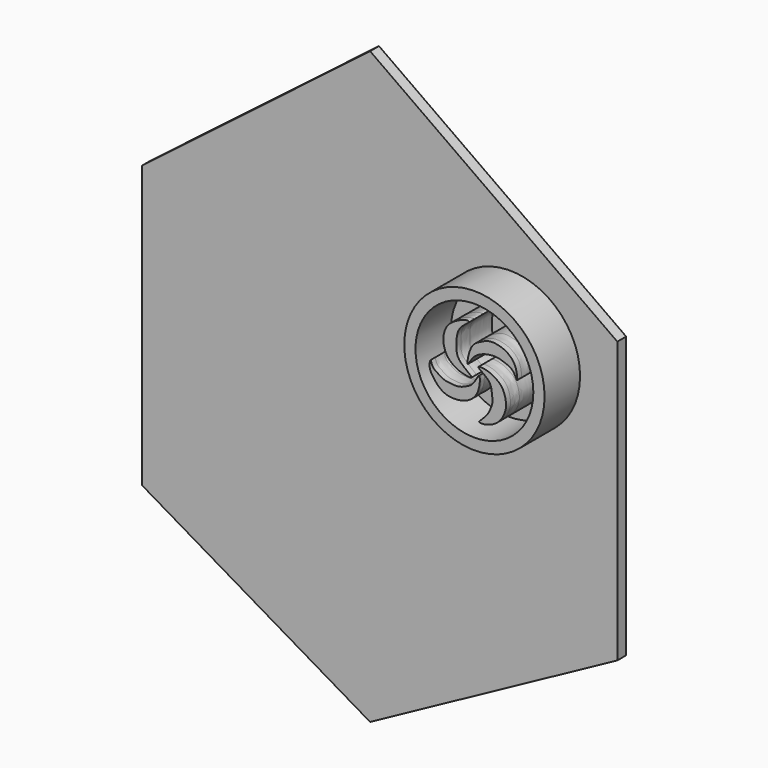
from build123d import *

# Parameters (mm, degrees)
F1_DEPTH  = 12.7
F2_DEPTH  = 2.54
F3_DEPTH  = 7.62
F4_DEPTH  = 2.54
F5_DEPTH  = 2.54
F6_DEPTH  = 2.54
F7_DEPTH  = 2.54
F8_DEPTH  = 2.54
F9_DEPTH  = 2.54
F10_R     = 16.0741043037
F10_R_2   = 13.5007402888
F11_DEPTH = 6.35
F12_DEPTH = 2.54
F13_DEPTH = 12.7
F14_DEPTH = 15.24
F15_DEPTH = 12.7
F16_DEPTH = 7.62
F17_DEPTH = 2.54
F18_DEPTH = 1.27


with BuildPart() as f1:
    # F0 (on Front) → F1 (new body)
    with BuildSketch(Plane.XZ):
        Polygon((59.2296272516, 26.558874175), (0, 68.5641244054), (-54.7846257687, 26.558874175), (-54.7846257687, -40.5606217682), (0, -72.7868750691), (59.2296272516, -40.5606217682), align=None)
    extrude(amount=F1_DEPTH)

    # F2 (cut): a face of the model
    f2_faces = [f1.faces().sort_by_distance(p)[0] for p in [
        (1.9587071028, -12.7, -4.2659517496),
    ]]
    extrude(f2_faces, amount=-F2_DEPTH, mode=Mode.SUBTRACT)

    # F3 (cut): a face of the model
    f3_faces = [f1.faces().sort_by_distance(p)[0] for p in [
        (1.9587071028, -10.16, -4.2659517496),
    ]]
    extrude(f3_faces, amount=-F3_DEPTH, mode=Mode.SUBTRACT)

    # F4 (cut): a face of the model
    f4_faces = [f1.faces().sort_by_distance(p)[0] for p in [
        (29.6148136258, -1.27, 47.5614992902),
    ]]
    extrude(f4_faces, amount=-F4_DEPTH, mode=Mode.SUBTRACT)

    # F5 (cut): a face of the model
    f5_faces = [f1.faces().sort_by_distance(p)[0] for p in [
        (-27.3923128843, -1.27, 47.5614992902),
    ]]
    extrude(f5_faces, amount=-F5_DEPTH, mode=Mode.SUBTRACT)

    # F6 (cut): a face of the model
    f6_faces = [f1.faces().sort_by_distance(p)[0] for p in [
        (59.2296272516, -1.27, -7.0008737966),
    ]]
    extrude(f6_faces, amount=-F6_DEPTH, mode=Mode.SUBTRACT)

    # F7 (cut): a face of the model
    f7_faces = [f1.faces().sort_by_distance(p)[0] for p in [
        (-54.7846257687, -1.27, -7.0008737966),
    ]]
    extrude(f7_faces, amount=-F7_DEPTH, mode=Mode.SUBTRACT)

    # F8 (cut): a face of the model
    f8_faces = [f1.faces().sort_by_distance(p)[0] for p in [
        (-27.3923128843, -1.27, -56.6737484187),
    ]]
    extrude(f8_faces, amount=-F8_DEPTH, mode=Mode.SUBTRACT)

    # F9 (cut): a face of the model
    f9_faces = [f1.faces().sort_by_distance(p)[0] for p in [
        (29.6148136258, -1.27, -56.6737484187),
    ]]
    extrude(f9_faces, amount=-F9_DEPTH, mode=Mode.SUBTRACT)

    # F10 (on face) → F11 (join)
    with BuildSketch(Plane.XZ.offset(2.54)):
        with Locations((32.0810638368, 15.524241142)):
            Circle(F10_R)
        with Locations((32.0810638368, 15.524241142)):
            Circle(F10_R_2, mode=Mode.SUBTRACT)
        with BuildLine():
            add(Edge.make_bspline(
                [(30.5548440665, 16.3963772357), (30.3616646545, 16.55656975), (31.0061165355, 20.5426753484), (33.3705227105, 21.729150098), (35.4447298445, 22.7803910786), (37.6591947763, 22.4848804399), (39.5147950732, 21.822340052), (41.1284378782, 20.3465061226), (41.7854230162, 18.6319321788), (42.0412150618, 15.9283976425), (41.1295217088, 18.4921365894), (39.4682039078, 19.2699897069), (37.7370339311, 19.8586788922), (36.0781614891, 19.9703229243), (34.1404660113, 19.615662145), (32.2226518058, 18.6963085632), (31.2369516227, 17.3672217798), (30.6549681084, 16.3133501581), (30.5548440665, 16.3963772357)],
                knots=[0, 0, 0, 0, 0.0840946717, 0.1586814679, 0.2246211108, 0.28951103, 0.3518536247, 0.4153529552, 0.479887154, 0.5356767483, 0.5913062181, 0.6538447399, 0.71320328, 0.7699641479, 0.8321602779, 0.895939225, 0.9564141005, 1, 1, 1, 1], degree=3))
        make_face()
        with BuildLine():
            add(Edge.make_bspline(
                [(32.9955592752, 16.5605898947), (32.9637085179, 16.2677962381), (36.0112217818, 14.7214201482), (36.0076025611, 12.0970785962), (36.4302469923, 10.6099763307), (35.5281218201, 8.3388466929), (34.7554064647, 7.1665521834), (33.4276774089, 5.9105737119), (32.97971826, 5.449168431), (34.4781795587, 5.3097185497), (36.803431251, 6.1484360282), (38.4932647508, 7.825303344), (39.3939498041, 10.0977956729), (39.3303034007, 11.932212165), (38.5954181317, 14.3388903247), (36.9430638092, 15.5899451197), (35.0874499427, 16.6252054555), (33.0196377233, 16.7819352407), (32.9955592752, 16.5605898947)],
                knots=[0, 0, 0, 0, 0.0789316505, 0.1514145887, 0.206990398, 0.2749325072, 0.3311847736, 0.3919891434, 0.4184400202, 0.465334372, 0.537657926, 0.607119013, 0.6758485518, 0.7370481514, 0.8067378578, 0.8701456685, 0.9403294672, 1, 1, 1, 1], degree=3))
        make_face()
        with BuildLine():
            add(Edge.make_bspline(
                [(33.1558138132, 14.8137016222), (33.4322619457, 14.7552893511), (33.3227080783, 11.3362445278), (31.0762034508, 9.0465164485), (28.4534471429, 8.300240035), (25.871168586, 8.3480744854), (23.8848229217, 9.4678741075), (22.4134936877, 11.4184883527), (21.6568456968, 12.6905574709), (21.9741986277, 15.0853244529), (22.409336445, 12.9469132102), (23.756364648, 12.2877912926), (24.9518779323, 11.3497878854), (26.9646020733, 11.1103584833), (28.674687444, 11.0559580583), (30.4324623617, 11.8277767755), (31.9824109835, 12.6790238454), (32.9197196469, 14.8635872782), (33.1558138132, 14.8137016222)],
                knots=[0, 0, 0, 0, 0.0751989286, 0.1559478608, 0.2270043032, 0.2963171445, 0.3618600683, 0.4292570391, 0.4860131694, 0.5381628897, 0.5867157141, 0.6417451069, 0.6952943618, 0.7569060679, 0.8145801391, 0.8736061224, 0.9357780854, 1, 1, 1, 1], degree=3))
        make_face()
        with BuildLine():
            add(Edge.make_bspline(
                [(31.4348116517, 13.9614613727), (31.4646011202, 14.2868205241), (27.9630762175, 16.2884835324), (27.9538287608, 19.165005287), (27.9950477356, 21.5695977257), (28.8652371483, 23.5392810422), (31.4479192648, 25.115035851), (29.8543733909, 25.1382064195), (28.0532624441, 24.3389528661), (26.2105257247, 23.1752017752), (25.0954060281, 21.365414748), (24.8330673458, 18.9435152334), (25.4145570635, 17.1276465432), (26.2370970666, 15.8429347951), (27.7961873523, 14.6098960128), (29.6532566306, 13.955868998), (31.4157458109, 13.7532251706), (31.4348116517, 13.9614613727)],
                knots=[0, 0, 0, 0, 0.0882733513, 0.167544757, 0.2377156904, 0.3080303194, 0.3761121513, 0.4166693164, 0.4841925414, 0.5523300064, 0.6187153337, 0.6901721527, 0.7533442808, 0.8098153791, 0.8734684724, 0.9435033337, 1, 1, 1, 1], degree=3))
        make_face()
    extrude(amount=F11_DEPTH)

    # F12 (add): faces of the model
    f12_faces = [f1.faces().sort_by_distance(p)[0] for p in [
        (16.4616038593, -8.89, 15.524241142),
        (36.1032401224, -8.89, 20.3203894259),
        (36.7515211172, -8.89, 10.9565823075),
        (27.8676372045, -8.89, 10.750205013),
        (27.4459933704, -8.89, 19.2644910808),
    ]]
    extrude(f12_faces, amount=F12_DEPTH)

    # F13 (add): faces of the model
    f13_faces = [f1.faces().sort_by_distance(p)[0] for p in [
        (16.4616038593, -11.43, 15.524241142),
        (27.8676372045, -11.43, 10.750205013),
        (27.4459933704, -11.43, 19.2644910808),
        (36.1032401224, -11.43, 20.3203894259),
        (36.7515211172, -11.43, 10.9565823075),
    ]]
    extrude(f13_faces, amount=F13_DEPTH)

    # F14 (cut): faces of the model
    f14_faces = [f1.faces().sort_by_distance(p)[0] for p in [
        (16.4616038593, -24.13, 15.524241142),
        (27.4459933704, -24.13, 19.2644910808),
        (27.8676372045, -24.13, 10.750205013),
        (36.1032401224, -24.13, 20.3203894259),
        (36.7515211172, -24.13, 10.9565823075),
    ]]
    extrude(f14_faces, amount=-F14_DEPTH, mode=Mode.SUBTRACT)

    # F15 (add): faces of the model
    f15_faces = [f1.faces().sort_by_distance(p)[0] for p in [
        (16.4616038593, -8.89, 15.524241142),
        (36.1032401224, -8.89, 20.3203894259),
        (36.7515211172, -8.89, 10.9565823075),
        (27.8676372045, -8.89, 10.750205013),
        (27.4459933704, -8.89, 19.2644910808),
    ]]
    extrude(f15_faces, amount=F15_DEPTH)

    # F16 (cut): faces of the model
    f16_faces = [f1.faces().sort_by_distance(p)[0] for p in [
        (16.4616038593, -21.59, 15.524241142),
        (36.1032401224, -21.59, 20.3203894259),
        (36.7515211172, -21.59, 10.9565823075),
        (27.8676372045, -21.59, 10.750205013),
        (27.4459933704, -21.59, 19.2644910808),
    ]]
    extrude(f16_faces, amount=-F16_DEPTH, mode=Mode.SUBTRACT)

    # F17 (cut): faces of the model
    f17_faces = [f1.faces().sort_by_distance(p)[0] for p in [
        (16.4616038593, -13.97, 15.524241142),
        (27.4459933704, -13.97, 19.2644910808),
        (36.1032401224, -13.97, 20.3203894259),
        (36.7515211172, -13.97, 10.9565823075),
        (27.8676372045, -13.97, 10.750205013),
    ]]
    extrude(f17_faces, amount=-F17_DEPTH, mode=Mode.SUBTRACT)

    # F18 (add): faces of the model
    f18_faces = [f1.faces().sort_by_distance(p)[0] for p in [
        (16.4616038593, -11.43, 15.524241142),
        (36.1032401224, -11.43, 20.3203894259),
        (36.7515211172, -11.43, 10.9565823075),
        (27.4459933704, -11.43, 19.2644910808),
        (27.8676372045, -11.43, 10.750205013),
    ]]
    extrude(f18_faces, amount=F18_DEPTH)


solid = f1.part
